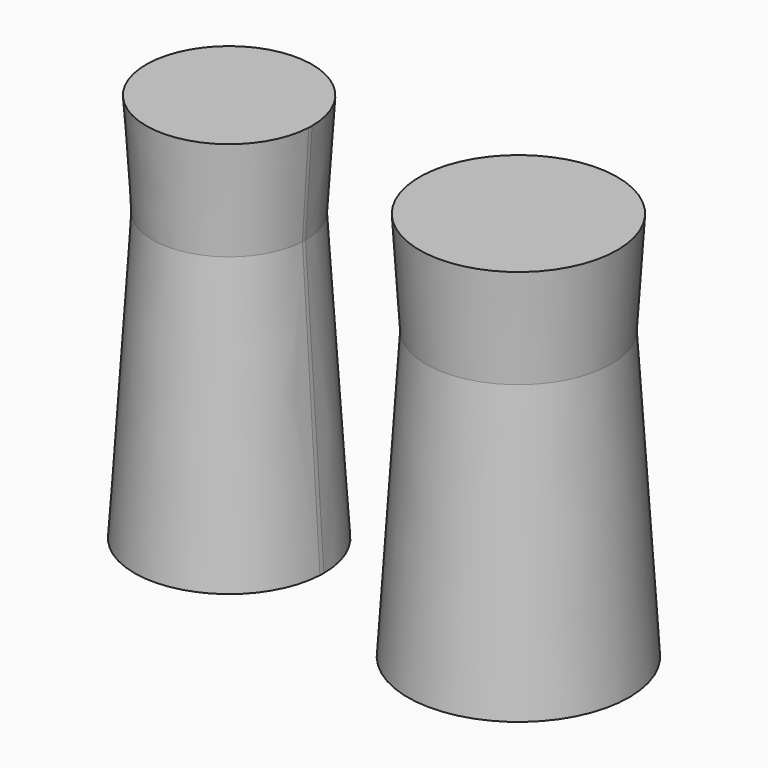
from build123d import *

# Parameters (mm, degrees)
F1_DEPTH      = 31.75
F1_TAPER      = -3.64
F1_DEPTH_BACK = 88.9
F1_TAPER_BACK = -3.64


with BuildPart() as f1:
    # F0 (on Top) → F1 (new body, two sides)
    with BuildSketch(Plane.XY) as f1_sk:
        with BuildLine():
            ThreePointArc((-38.8434099383, 3.5144192746), (-38.8208694499, 4.1102555979), (-38.813354362, 4.7064707614))
            ThreePointArc((-38.813354362, 4.7064707614), (-45.4557830484, 21.1418829016), (-61.6525194406, 28.346767447))
            Line((-61.6525194406, 28.346767447), (-62.4677017331, 4.7064707614))
            Line((-62.4677017331, 4.7064707614), (-38.8434099383, 3.5144192746))
        make_face()
        with BuildLine():
            Line((-62.4677017331, 4.7064707614), (-61.6525194406, 28.346767447))
            ThreePointArc((-61.6525194406, 28.346767447), (-79.8884753197, -11.2949290897), (-38.8434099383, 3.5144192746))
            Line((-38.8434099383, 3.5144192746), (-62.4677017331, 4.7064707614))
        make_face()
    extrude(amount=F1_DEPTH, taper=F1_TAPER)
    extrude(f1_sk.sketch, amount=-F1_DEPTH_BACK, taper=F1_TAPER_BACK)


with BuildPart() as f1b:
    # F0 (on Top) → F1, piece 2 (new body, two sides)
    with BuildSketch(Plane.XY) as f1_2_sk:
        with BuildLine():
            ThreePointArc((59.398783859, 0), (31.5266767053, 28.5837134297), (2.2495193369, 1.4409227285))
            ThreePointArc((2.2495193369, 1.4409227285), (30.085296044, -28.5837134297), (59.398783859, 0))
        make_face()
    extrude(amount=F1_DEPTH, taper=F1_TAPER)
    extrude(f1_2_sk.sketch, amount=-F1_DEPTH_BACK, taper=F1_TAPER_BACK)


solid = Compound([f1.part, f1b.part])
